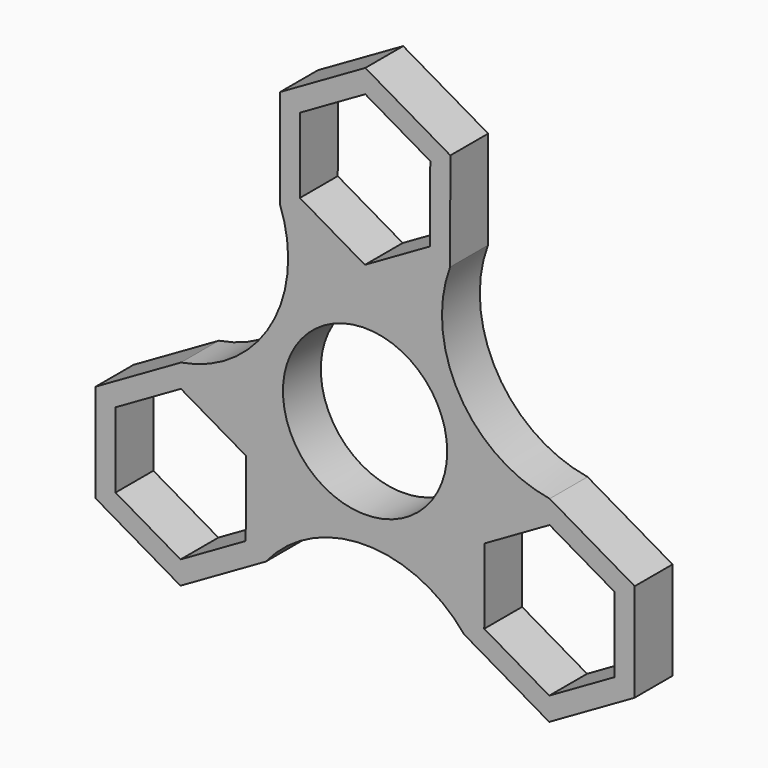
from build123d import *

# Parameters (mm, degrees)
F0_R     = 14.2875
F0_R_2   = 11.0236
F1_DEPTH = 6.35


with BuildPart() as f1:
    # F0 (on Front) → F1 (new body)
    with BuildSketch(Plane.XZ):
        with BuildLine():
            ThreePointArc((24.7791487997, -1.0893127945), (12.6456204408, 7.2668372855), (11.4137289606, 21.9477840526))
            Line((11.4137289606, 21.9477840526), (-0.0324728866, 15.3768127945))
            Line((-0.0324728866, 15.3768127945), (-11.4462018472, 22.0040287419))
            ThreePointArc((-11.4462018472, 22.0040287419), (-12.6160759148, 7.3180099056), (-24.7142030266, -1.0893127945))
            Line((-24.7142030266, -1.0893127945), (-13.300474066, -7.7165287419))
            Line((-13.300474066, -7.7165287419), (-13.3329469525, -20.9147159474))
            ThreePointArc((-13.3329469525, -20.9147159474), (-0.029544526, -14.5848471911), (13.300474066, -20.8584712581))
            Line((13.300474066, -20.8584712581), (13.3329469525, -7.6602840526))
            Line((13.3329469525, -7.6602840526), (24.7791487997, -1.0893127945))
        make_face()
        Circle(F0_R, mode=Mode.SUBTRACT)
        Circle(F0_R)
        Circle(F0_R_2, mode=Mode.SUBTRACT)
        Polygon((-13.300474066, -7.7165287419), (-24.7142030266, -1.0893127945), (-36.1604048737, -7.6602840526), (-36.1928777603, -20.8584712581), (-24.7791487997, -27.4856872055), (-13.3329469525, -20.9147159474), align=None)
        Polygon((-24.7714996309, -24.376780886), (-33.4966613252, -19.3106424728), (-33.4718376075, -9.2213615868), (-24.7218521954, -4.198219114), (-15.9966905011, -9.2643575272), (-16.0215142188, -19.3536384132), align=None, mode=Mode.SUBTRACT)
        Polygon((36.1928777603, -7.7165287419), (24.7791487997, -1.0893127945), (13.3329469525, -7.6602840526), (13.300474066, -20.8584712581), (24.7142030266, -27.4856872055), (36.1604048737, -20.9147159474), align=None)
        Polygon((33.4966613252, -9.2643575272), (33.4718376075, -19.3536384132), (24.7218521954, -24.376780886), (15.9966905011, -19.3106424728), (16.0215142188, -9.2213615868), (24.7714996309, -4.198219114), align=None, mode=Mode.SUBTRACT)
        Polygon((-0.0324728866, 15.3768127945), (11.4137289606, 21.9477840526), (11.4462018472, 35.1459712581), (0.0324728866, 41.7731872055), (-11.4137289606, 35.2022159474), (-11.4462018472, 22.0040287419), align=None)
        Polygon((8.749985412, 33.5981424728), (8.7251616943, 23.5088615868), (-0.0248237177, 18.485719114), (-8.749985412, 23.5518575272), (-8.7251616943, 33.6411384132), (0.0248237177, 38.664280886), align=None, mode=Mode.SUBTRACT)
    extrude(amount=F1_DEPTH)


solid = f1.part
